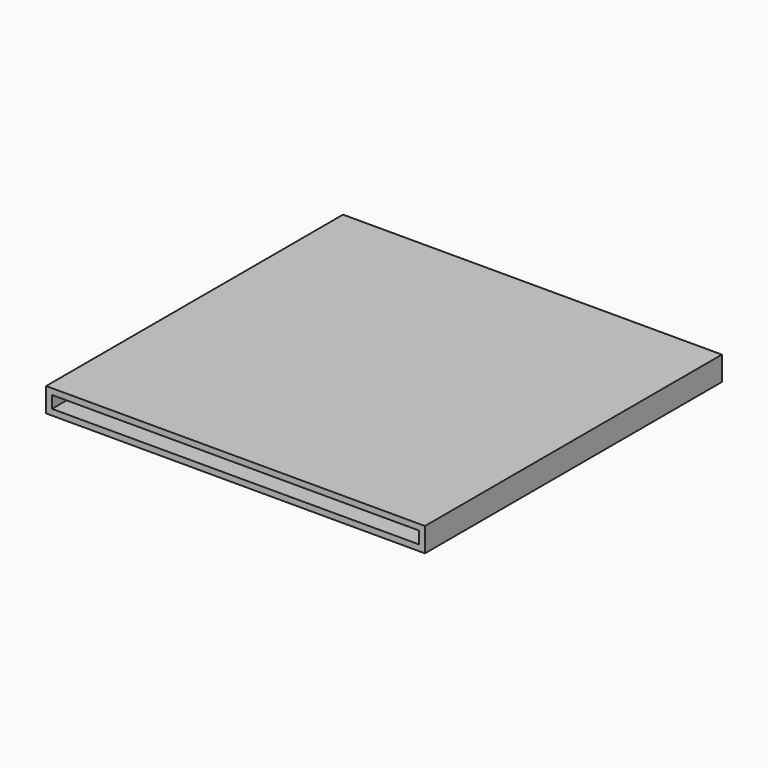
from build123d import *

# Parameters (mm, degrees)
F0_R     = 74.9064703826
F1_DEPTH = 1.778
F2_W     = 154.2756035924
F2_H     = 153.531037271
F3_DEPTH = 5.13641
F4_T     = 2.5


with BuildPart() as f1:
    # F0 (on Top) → F1 (new body)
    with BuildSketch(Plane.XY):
        Circle(F0_R)
    extrude(amount=F1_DEPTH)

    # F2 (on Top) → F3 (join)
    with BuildSketch(Plane.XY):
        with Locations((0.2817176282, -0.1181550324)):
            Rectangle(F2_W, F2_H)
    extrude(amount=F3_DEPTH)

    # F4
    f4_openings = [f1.faces().sort_by_distance(p)[0] for p in [
        (0.281718, -76.883674, 2.568205),
    ]]
    offset(amount=F4_T, openings=f4_openings, kind=Kind.INTERSECTION)


solid = f1.part
